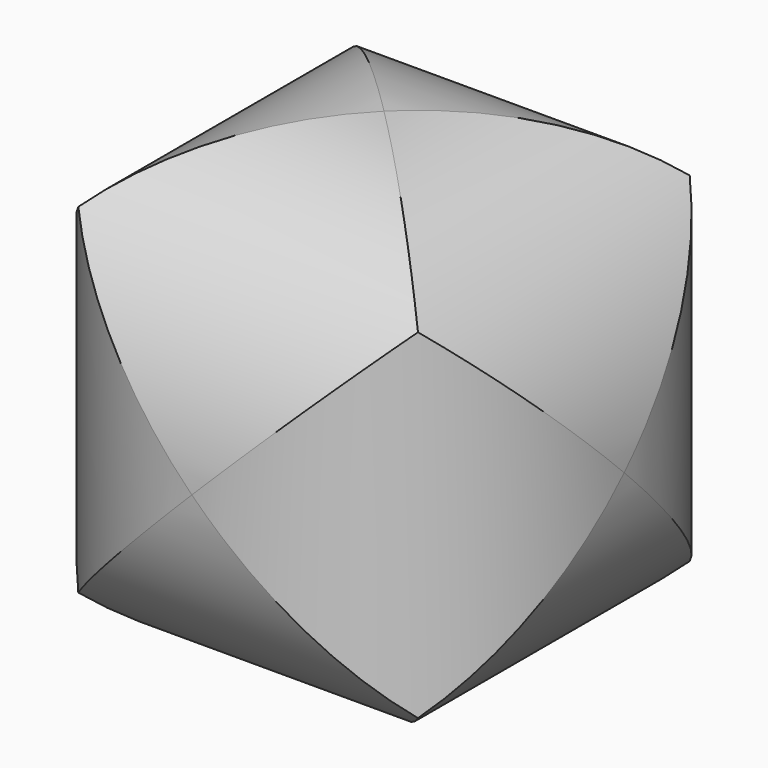
from build123d import *

# Parameters (mm, degrees)
F0_R     = 10
F1_DEPTH = 38.1
F4_COUNT = 3


with BuildPart() as f1:
    # F0 (on Front) → F1 (new body, symmetric)
    with BuildSketch(Plane.XZ):
        Circle(F0_R)
    extrude(amount=F1_DEPTH, both=True)


with BuildPart() as f4_1:
    # F4: instance of F1
    add(f1.part.rotate(Axis((-10, 10, 10), (-0.5773502692, 0.5773502692, 0.5773502692)), 1 * 360 / F4_COUNT))


with BuildPart() as f4_2:
    # F4: instance of F1
    add(f1.part.rotate(Axis((-10, 10, 10), (-0.5773502692, 0.5773502692, 0.5773502692)), 2 * 360 / F4_COUNT))

    # F5: intersect F4_1, F1
    add(f4_1.part, mode=Mode.INTERSECT)
    add(f1.part, mode=Mode.INTERSECT)


solid = f4_2.part
